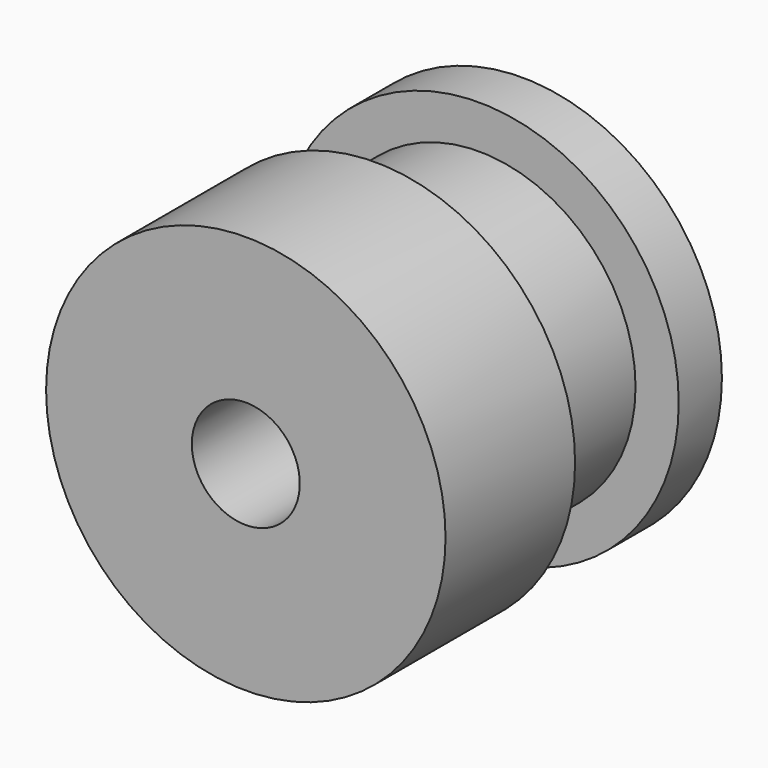
from build123d import *


with BuildPart() as part:
    # Sketch002 → Revolution (revolve)
    with BuildSketch(Plane.XY):
        Polygon((-9.25, 16), (-2.5, 16), (-2.5, 0), (-9.25, 0), (-9.25, 7.5), (-7.25, 7.5), (-7.25, 13.5), (-9.25, 13.5), align=None)
    revolve(axis=Axis((0, 0, 0), (0, 1, 0)))


solid = part.part
